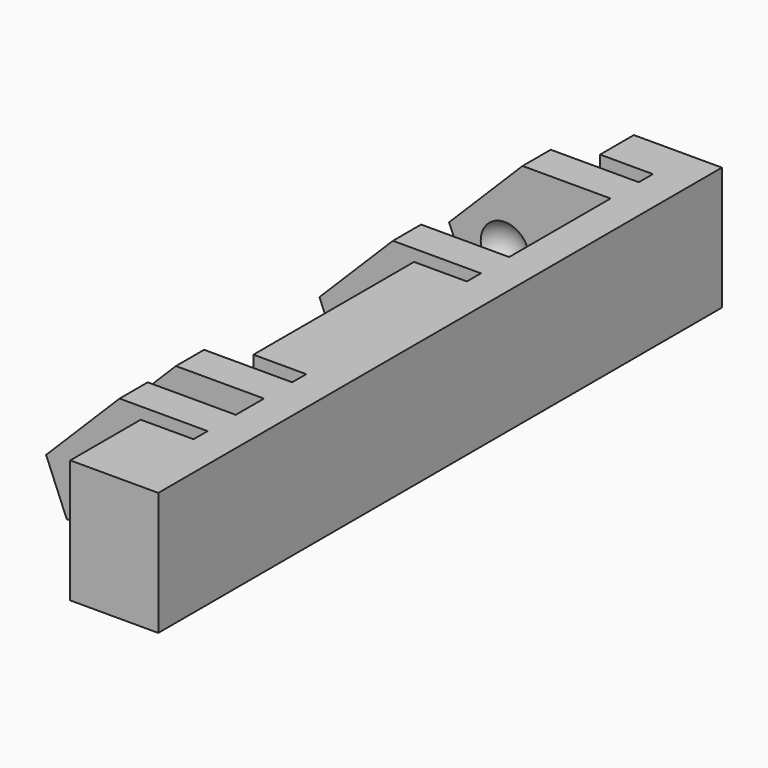
from build123d import *

# Parameters (mm, degrees)
BOX008_W           = 4
BOX008_H           = 1
BOX008_DEPTH       = 7
BOX010_W           = 4
BOX010_H           = 1
BOX010_DEPTH       = 7
BOX007_W           = 4
BOX007_H           = 2
BOX007_DEPTH       = 7
BOX009_W           = 4
BOX009_H           = 1
BOX009_DEPTH       = 7
BOX006_W           = 4
BOX006_H           = 1
BOX006_DEPTH       = 7
BOX011_W           = 4
BOX011_H           = 7.2
BOX011_DEPTH       = 7
BOX005_W           = 13
BOX005_H           = 40
BOX005_DEPTH       = 10
BOX005_PITCH_ANGLE = -45
BOX_W              = 10
BOX_H              = 2
BOX_DEPTH          = 7
BOX002_W           = 10
BOX002_H           = 2
BOX002_DEPTH       = 7
BOX003_W           = 10
BOX003_H           = 2
BOX003_DEPTH       = 7
BOX004_W           = 10
BOX004_H           = 2
BOX004_DEPTH       = 7
BOX001_W           = 5
BOX001_H           = 40
BOX001_DEPTH       = 7
CHAMFER_SIZE       = 4


with BuildPart() as cube008:
    # Box008 → Box008 (new body)
    with BuildSketch(Plane(origin=(-1, 12, 0), x_dir=(1, 0, 0), z_dir=(0, 0, 1))):
        with Locations((2, 0.5)):
            Rectangle(BOX008_W, BOX008_H)
    extrude(amount=BOX008_DEPTH)


with BuildPart() as cube010:
    # Box010 → Box010 (new body)
    with BuildSketch(Plane(origin=(-1, 36.6, 0), x_dir=(1, 0, 0), z_dir=(0, 0, 1))):
        with Locations((2, 0.5)):
            Rectangle(BOX010_W, BOX010_H)
    extrude(amount=BOX010_DEPTH)


with BuildPart() as cube007:
    # Box007 → Box007 (new body)
    with BuildSketch(Plane(origin=(-1, 8, 0), x_dir=(1, 0, 0), z_dir=(0, 0, 1))):
        with Locations((2, 1)):
            Rectangle(BOX007_W, BOX007_H)
    extrude(amount=BOX007_DEPTH)


with BuildPart() as cube009:
    # Box009 → Box009 (new body)
    with BuildSketch(Plane(origin=(-1, 24.4, 0), x_dir=(1, 0, 0), z_dir=(0, 0, 1))):
        with Locations((2, 0.5)):
            Rectangle(BOX009_W, BOX009_H)
    extrude(amount=BOX009_DEPTH)


with BuildPart() as cube006:
    # Box006 → Box006 (new body)
    with BuildSketch(Plane(origin=(-1, 5, 0), x_dir=(1, 0, 0), z_dir=(0, 0, 1))):
        with Locations((2, 0.5)):
            Rectangle(BOX006_W, BOX006_H)
    extrude(amount=BOX006_DEPTH)


with BuildPart() as fusion003:
    # Box011 → Box011 (new body)
    with BuildSketch(Plane(origin=(-1, 27.4, 0), x_dir=(1, 0, 0), z_dir=(0, 0, 1))):
        with Locations((2, 3.6)):
            Rectangle(BOX011_W, BOX011_H)
    extrude(amount=BOX011_DEPTH)

    # Fusion003: union Cube008, Cube010, Cube007, Cube009, Cube006
    add(cube008.part)
    add(cube010.part)
    add(cube007.part)
    add(cube009.part)
    add(cube006.part)


with BuildPart() as sphere010:
    # Sphere010 → Sphere010 (revolve)
    with BuildSketch(Plane(origin=(-3, 28, 2.5), x_dir=(1, 0, 0), z_dir=(0, -1, 0))):
        with BuildLine():
            ThreePointArc((0, -1.5), (1.5, 0), (0, 1.5))
            Line((0, 1.5), (0, -1.5))
        make_face()
    revolve(axis=Axis((-3, 28, 2.5), (0, 0, 1)))


with BuildPart() as fusion002:
    # Sphere011 → Sphere011 (revolve)
    with BuildSketch(Plane(origin=(-3, 34, 2.5), x_dir=(1, 0, 0), z_dir=(0, -1, 0))):
        with BuildLine():
            ThreePointArc((0, -1.5), (1.5, 0), (0, 1.5))
            Line((0, 1.5), (0, -1.5))
        make_face()
    revolve(axis=Axis((-3, 34, 2.5), (0, 0, 1)))

    # Fusion002: union Sphere010
    add(sphere010.part)


with BuildPart() as sphere009:
    # Sphere009 → Sphere009 (revolve)
    with BuildSketch(Plane(origin=(-3, 11.5, 2.5), x_dir=(1, 0, 0), z_dir=(0, -1, 0))):
        with BuildLine():
            ThreePointArc((0, -1.25), (1.25, 0), (0, 1.25))
            Line((0, 1.25), (0, -1.25))
        make_face()
    revolve(axis=Axis((-3, 11.5, 2.5), (0, 0, 1)))


with BuildPart() as cube005:
    # Box005 → Box005 (new body)
    with BuildSketch(Plane.XY):
        with Locations((6.5, 20)):
            Rectangle(BOX005_W, BOX005_H)
    extrude(amount=BOX005_DEPTH)


with BuildPart() as cube005_1:
    # Box005 pitch: moved
    add(cube005.part.rotate(Axis((0, 0, 0), (0, 1, 0)), BOX005_PITCH_ANGLE))


with BuildPart() as cube005_2:
    # Box005 placement: moved
    add(cube005_1.part.moved(Location((-10.19, 0, -1.19))))


with BuildPart() as cube:
    # Box → Box (new body)
    with BuildSketch(Plane(origin=(-10, 6, 0), x_dir=(1, 0, 0), z_dir=(0, 0, 1))):
        with Locations((5, 1)):
            Rectangle(BOX_W, BOX_H)
    extrude(amount=BOX_DEPTH)


with BuildPart() as cube002:
    # Box002 → Box002 (new body)
    with BuildSketch(Plane(origin=(-10, 10, 0), x_dir=(1, 0, 0), z_dir=(0, 0, 1))):
        with Locations((5, 1)):
            Rectangle(BOX002_W, BOX002_H)
    extrude(amount=BOX002_DEPTH)


with BuildPart() as cube003:
    # Box003 → Box003 (new body)
    with BuildSketch(Plane(origin=(-10, 25.4, 0), x_dir=(1, 0, 0), z_dir=(0, 0, 1))):
        with Locations((5, 1)):
            Rectangle(BOX003_W, BOX003_H)
    extrude(amount=BOX003_DEPTH)


with BuildPart() as cube004:
    # Box004 → Box004 (new body)
    with BuildSketch(Plane(origin=(-10, 34.6, 0), x_dir=(1, 0, 0), z_dir=(0, 0, 1))):
        with Locations((5, 1)):
            Rectangle(BOX004_W, BOX004_H)
    extrude(amount=BOX004_DEPTH)


with BuildPart() as cut:
    # Box001 → Box001 (new body)
    with BuildSketch(Plane.XY):
        with Locations((2.5, 20)):
            Rectangle(BOX001_W, BOX001_H)
    extrude(amount=BOX001_DEPTH)

    # Fusion: union Cube, Cube002, Cube003, Cube004
    add(cube.part)
    add(cube002.part)
    add(cube003.part)
    add(cube004.part)

    # Cut: cut Cube005
    add(cube005_2.part, mode=Mode.SUBTRACT)


with BuildPart() as cut002:
    # Sphere008 → Sphere008 (revolve)
    with BuildSketch(Plane(origin=(-3, 6.5, 2.5), x_dir=(1, 0, 0), z_dir=(0, -1, 0))):
        with BuildLine():
            ThreePointArc((0, -1.25), (1.25, 0), (0, 1.25))
            Line((0, 1.25), (0, -1.25))
        make_face()
    revolve(axis=Axis((-3, 6.5, 2.5), (0, 0, 1)))

    # Fusion001: union Sphere009, Cut
    add(sphere009.part)
    add(cut.part)

    # Cut001: cut Fusion002
    add(fusion002.part, mode=Mode.SUBTRACT)

    # Chamfer
    chamfer_edges = [cut002.edges().sort_by_distance(p)[0] for p in [
        (-9, 7, 0),
        (-9, 11, 0),
        (-9, 35.6, 0),
        (-9, 26.4, 0),
    ]]
    chamfer(chamfer_edges, length=CHAMFER_SIZE)

    # Cut002: cut Fusion003
    add(fusion003.part, mode=Mode.SUBTRACT)


solid = cut002.part
